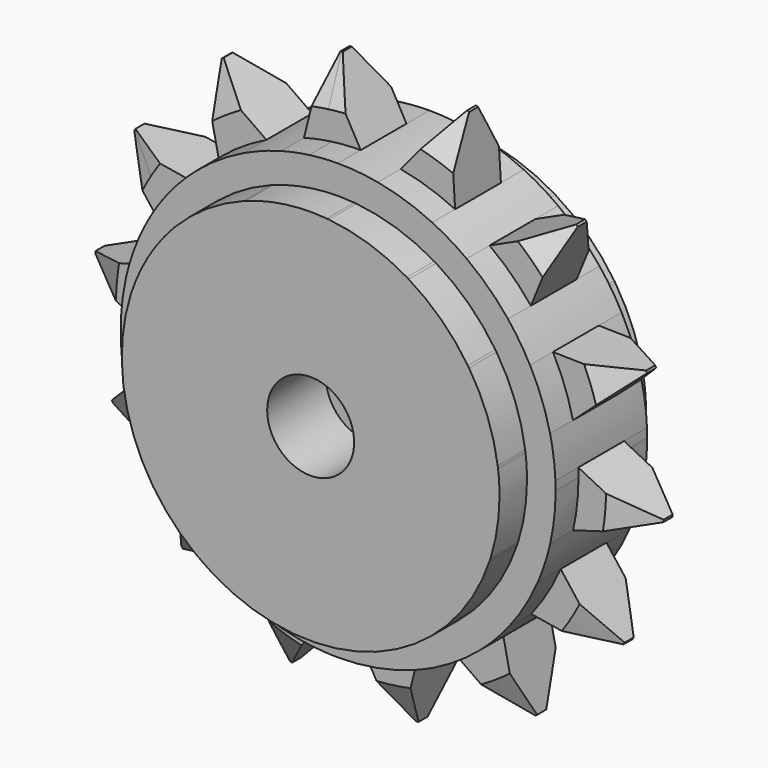
from build123d import *

# Parameters (mm, degrees)
F1_DEPTH    = 4
F2_DEPTH    = 2.5
F3_DEPTH    = 1.25
F4_SIZE2    = 1
F4_SIZE     = 1.7320508076
F4_2_SIZE2  = 1
F4_2_SIZE   = 1.7320508076
F4_3_SIZE2  = 1
F4_3_SIZE   = 1.7320508076
F4_4_SIZE2  = 1
F4_4_SIZE   = 1.7320508076
F4_5_SIZE2  = 1
F4_5_SIZE   = 1.7320508076
F4_6_SIZE2  = 1
F4_6_SIZE   = 1.7320508076
F4_7_SIZE2  = 1
F4_7_SIZE   = 1.7320508076
F4_8_SIZE2  = 1
F4_8_SIZE   = 1.7320508076
F4_9_SIZE2  = 1
F4_9_SIZE   = 1.7320508076
F4_10_SIZE2 = 1
F4_10_SIZE  = 1.7320508076
F4_11_SIZE2 = 1
F4_11_SIZE  = 1.7320508076
F4_12_SIZE2 = 1
F4_12_SIZE  = 1.7320508076
F4_13_SIZE2 = 1
F4_13_SIZE  = 1.7320508076
F4_14_SIZE2 = 1
F4_14_SIZE  = 1.7320508076
F5_SIZE2    = 1.0103629711
F5_SIZE     = 1.75
F5_2_SIZE2  = 1.0103629711
F5_2_SIZE   = 1.75
F5_3_SIZE2  = 1.0103629711
F5_3_SIZE   = 1.75
F5_4_SIZE2  = 1.0103629711
F5_4_SIZE   = 1.75
F5_5_SIZE2  = 1.0103629711
F5_5_SIZE   = 1.75
F5_6_SIZE2  = 1.0103629711
F5_6_SIZE   = 1.75
F5_7_SIZE2  = 1.0103629711
F5_7_SIZE   = 1.75
F5_8_SIZE2  = 1.0103629711
F5_8_SIZE   = 1.75
F5_9_SIZE2  = 1.0103629711
F5_9_SIZE   = 1.75
F5_10_SIZE2 = 1.0103629711
F5_10_SIZE  = 1.75
F5_11_SIZE2 = 1.0103629711
F5_11_SIZE  = 1.75
F5_12_SIZE2 = 1.0103629711
F5_12_SIZE  = 1.75
F5_13_SIZE2 = 1.0103629711
F5_13_SIZE  = 1.75
F5_14_SIZE2 = 1.0103629711
F5_14_SIZE  = 1.75
F6_R        = 1
F7_DEPTH    = 8.001
F6_R_2      = 3.9684577332
F8_DEPTH    = 2
F9_DEPTH    = 3
F11_START   = -1.8
F10_R       = 1.9
F10_R_2     = 1
F11_DEPTH   = 9.74


with BuildPart() as f1:
    # F0 (on Front) → F1 (new body, symmetric)
    with BuildSketch(Plane.XZ):
        Polygon((22.2134453157, 70.6856785573), (24.6582214579, 70.2813768995), (24.1511236759, 72.7069164385), (26.529210784, 73.4034018455), (25.0199293049, 75.3687159763), (26.8603180618, 77.0280409713), (24.6477845926, 78.1438751272), (25.5859634342, 80.4373900448), (23.1083973634, 80.4827395865), (22.9585484641, 82.956185669), (20.7066621375, 81.9220685635), (19.4984649094, 84.0855494795), (17.9182720315, 82.1767853023), (18.440936141, 78.2791722539), (18.7544736096, 78.5927097225), (21.406124039, 75.9410592931), (18.7544736096, 73.2894088636), (16.1028231801, 75.9410592931), (17.0964533562, 76.9346894691), (13.3578235433, 79.1752021476), (10.9797364352, 78.4787167406), (12.4890179143, 76.5134026098), (10.6486291574, 74.8540776148), (12.8611626266, 73.7382434589), (11.922983785, 71.4447285413), (14.4005498557, 71.3993789997), (14.5503987551, 68.9259329171), (16.8022850817, 69.9600500226), (18.0104823097, 67.7965691066), (19.5906751877, 69.7053332838), (21.6179224657, 68.280321463), align=None)
        Polygon((18.440936141, 78.2791722539), (17.9182720315, 82.1767853023), (15.8910247534, 83.6017971231), (15.2955019034, 81.1964400288), (12.8507257613, 81.6007416866), (13.3578235433, 79.1752021476), (17.0964533562, 76.9346894691), align=None)
        with BuildLine():
            Line((15.2955019034, 81.1964400288), (15.8910247534, 83.6017971231))
            Line((15.8910247534, 83.6017971231), (15.8201773124, 83.6515978761))
            ThreePointArc((15.8201773124, 83.6515978761), (14.2187790951, 82.8323563604), (12.8330039073, 81.685508489))
            Line((12.8330039073, 81.685508489), (12.8507257613, 81.6007416866))
            Line((12.8507257613, 81.6007416866), (15.2955019034, 81.1964400288))
        make_face()
        with BuildLine():
            Line((10.9269906593, 78.5473997664), (10.9797364352, 78.4787167406))
            Line((10.9797364352, 78.4787167406), (13.3578235433, 79.1752021476))
            Line((13.3578235433, 79.1752021476), (11.6779323187, 80.1819393148))
            ThreePointArc((11.6779323187, 80.1819393148), (11.2577800365, 79.3851971345), (10.9269906593, 78.5473997664))
        make_face()
        with BuildLine():
            Line((10.5713064074, 74.8930733483), (10.6486291574, 74.8540776148))
            Line((10.6486291574, 74.8540776148), (12.4890179143, 76.5134026098))
            Line((12.4890179143, 76.5134026098), (10.9797364352, 78.4787167406))
            Line((10.9797364352, 78.4787167406), (10.8966279817, 78.4543762424))
            ThreePointArc((10.8966279817, 78.4543762424), (10.5386813331, 76.6915639699), (10.5713064074, 74.8930733483))
        make_face()
        with BuildLine():
            ThreePointArc((10.5713064074, 74.8930733483), (10.5776653969, 74.8445614801), (10.5843119745, 74.7960881771))
            Line((10.5843119745, 74.7960881771), (10.6486291574, 74.8540776148))
            Line((10.6486291574, 74.8540776148), (10.5713064074, 74.8930733483))
        make_face()
        with BuildLine():
            ThreePointArc((10.9269906593, 78.5473997664), (10.9116714002, 78.5009330212), (10.8966279817, 78.4543762424))
            Line((10.8966279817, 78.4543762424), (10.9797364352, 78.4787167406))
            Line((10.9797364352, 78.4787167406), (10.9269906593, 78.5473997664))
        make_face()
        with BuildLine():
            Line((11.6779323187, 80.1819393148), (13.3578235433, 79.1752021476))
            Line((13.3578235433, 79.1752021476), (12.8507257613, 81.6007416866))
            Line((12.8507257613, 81.6007416866), (12.7652866856, 81.614871062))
            ThreePointArc((12.7652866856, 81.614871062), (12.1824391609, 80.9281288941), (11.6779323187, 80.1819393148))
        make_face()
        with BuildLine():
            Line((12.8507257613, 81.6007416866), (12.8330039073, 81.685508489))
            ThreePointArc((12.8330039073, 81.685508489), (12.7990405667, 81.6502901757), (12.7652866856, 81.614871062))
            Line((12.7652866856, 81.614871062), (12.8507257613, 81.6007416866))
        make_face()
        with BuildLine():
            Line((15.8201773124, 83.6515978761), (15.8910247534, 83.6017971231))
            Line((15.8910247534, 83.6017971231), (15.9118368519, 83.6858585974))
            ThreePointArc((15.9118368519, 83.6858585974), (15.8659562859, 83.6688641347), (15.8201773124, 83.6515978761))
        make_face()
        with BuildLine():
            Line((15.8910247534, 83.6017971231), (17.9182720315, 82.1767853023))
            Line((17.9182720315, 82.1767853023), (17.6579757967, 84.1178675057))
            ThreePointArc((17.6579757967, 84.1178675057), (16.7730970135, 83.9495951633), (15.9118368519, 83.6858585974))
            Line((15.9118368519, 83.6858585974), (15.8910247534, 83.6017971231))
        make_face()
        with BuildLine():
            Line((17.9182720315, 82.1767853023), (19.4984649094, 84.0855494795))
            Line((19.4984649094, 84.0855494795), (19.4562413076, 84.1611579602))
            ThreePointArc((19.4562413076, 84.1611579602), (18.5559251728, 84.1886697663), (17.6579757967, 84.1178675057))
            Line((17.6579757967, 84.1178675057), (17.9182720315, 82.1767853023))
        make_face()
        with BuildLine():
            Line((19.4984649094, 84.0855494795), (19.553688869, 84.1522562198))
            ThreePointArc((19.553688869, 84.1522562198), (19.5049782864, 84.1568515695), (19.4562413076, 84.1611579602))
            Line((19.4562413076, 84.1611579602), (19.4984649094, 84.0855494795))
        make_face()
        with BuildLine():
            Line((20.7066621375, 81.9220685635), (22.9585484641, 82.956185669))
            Line((22.9585484641, 82.956185669), (22.9533116036, 83.0426266904))
            ThreePointArc((22.9533116036, 83.0426266904), (21.3143473378, 83.7838615025), (19.553688869, 84.1522562198))
            Line((19.553688869, 84.1522562198), (19.4984649094, 84.0855494795))
            Line((19.4984649094, 84.0855494795), (20.7066621375, 81.9220685635))
        make_face()
        with BuildLine():
            Line((22.9585484641, 82.956185669), (23.0372465023, 82.9923255871))
            ThreePointArc((23.0372465023, 82.9923255871), (22.9953536313, 83.0176005839), (22.9533116036, 83.0426266904))
            Line((22.9533116036, 83.0426266904), (22.9585484641, 82.956185669))
        make_face()
        with BuildLine():
            Line((23.1083973634, 80.4827395865), (25.5859634342, 80.4373900448))
            Line((25.5859634342, 80.4373900448), (25.6187505396, 80.5175429026))
            ThreePointArc((25.6187505396, 80.5175429026), (24.4637044922, 81.896492336), (23.0372465023, 82.9923255871))
            Line((23.0372465023, 82.9923255871), (22.9585484641, 82.956185669))
            Line((22.9585484641, 82.956185669), (23.1083973634, 80.4827395865))
        make_face()
        with BuildLine():
            Line((25.5859634342, 80.4373900448), (25.6725484394, 80.4358051868))
            ThreePointArc((25.6725484394, 80.4358051868), (25.645770677, 80.4767538076), (25.6187505396, 80.5175429026))
            Line((25.6187505396, 80.5175429026), (25.5859634342, 80.4373900448))
        make_face()
        with BuildLine():
            Line((24.6477845926, 78.1438751272), (26.8603180618, 77.0280409713))
            Line((26.8603180618, 77.0280409713), (26.9246352447, 77.086030409))
            ThreePointArc((26.9246352447, 77.086030409), (26.4822784512, 78.8295766168), (25.6725484394, 80.4358051868))
            Line((25.6725484394, 80.4358051868), (25.5859634342, 80.4373900448))
            Line((25.5859634342, 80.4373900448), (24.6477845926, 78.1438751272))
        make_face()
        with BuildLine():
            Line((26.8603180618, 77.0280409713), (26.9376408118, 76.9890452378))
            ThreePointArc((26.9376408118, 76.9890452378), (26.9312818222, 77.037557106), (26.9246352447, 77.086030409))
            Line((26.9246352447, 77.086030409), (26.8603180618, 77.0280409713))
        make_face()
        with BuildLine():
            Line((25.0199293049, 75.3687159763), (26.529210784, 73.4034018455))
            Line((26.529210784, 73.4034018455), (26.6123192375, 73.4277423437))
            ThreePointArc((26.6123192375, 73.4277423437), (26.9058454705, 74.6691957843), (27.0044736096, 75.9410592931))
            ThreePointArc((27.0044736096, 75.9410592931), (26.9877484568, 76.4661167097), (26.9376408118, 76.9890452378))
            Line((26.9376408118, 76.9890452378), (26.8603180618, 77.0280409713))
            Line((26.8603180618, 77.0280409713), (25.0199293049, 75.3687159763))
        make_face()
        with BuildLine():
            Line((26.529210784, 73.4034018455), (26.5819565599, 73.3347188198))
            ThreePointArc((26.5819565599, 73.3347188198), (26.597275819, 73.3811855649), (26.6123192375, 73.4277423437))
            Line((26.6123192375, 73.4277423437), (26.529210784, 73.4034018455))
        make_face()
        with BuildLine():
            Line((24.6582214579, 70.2813768995), (24.7436605336, 70.2672475241))
            ThreePointArc((24.7436605336, 70.2672475241), (25.8310149004, 71.7001792713), (26.5819565599, 73.3347188198))
            Line((26.5819565599, 73.3347188198), (26.529210784, 73.4034018455))
            Line((26.529210784, 73.4034018455), (24.1511236759, 72.7069164385))
            Line((24.1511236759, 72.7069164385), (24.6582214579, 70.2813768995))
        make_face()
        with BuildLine():
            Line((24.6759433119, 70.1966100971), (24.6582214579, 70.2813768995))
            Line((24.6582214579, 70.2813768995), (22.2134453157, 70.6856785573))
            Line((22.2134453157, 70.6856785573), (21.6179224657, 68.280321463))
            Line((21.6179224657, 68.280321463), (21.6887699068, 68.23052071))
            ThreePointArc((21.6887699068, 68.23052071), (23.2901681241, 69.0497622257), (24.6759433119, 70.1966100971))
        make_face()
        with BuildLine():
            ThreePointArc((21.5971103673, 68.1962599888), (21.6429909333, 68.2132544514), (21.6887699068, 68.23052071))
            Line((21.6887699068, 68.23052071), (21.6179224657, 68.280321463))
            Line((21.6179224657, 68.280321463), (21.5971103673, 68.1962599888))
        make_face()
        with BuildLine():
            Line((21.5971103673, 68.1962599888), (21.6179224657, 68.280321463))
            Line((21.6179224657, 68.280321463), (19.5906751877, 69.7053332838))
            Line((19.5906751877, 69.7053332838), (18.0104823097, 67.7965691066))
            Line((18.0104823097, 67.7965691066), (18.0527059116, 67.7209606259))
            ThreePointArc((18.0527059116, 67.7209606259), (19.8509714225, 67.7642510804), (21.5971103673, 68.1962599888))
        make_face()
        with BuildLine():
            ThreePointArc((17.9552583501, 67.7298623664), (18.0039689328, 67.7252670166), (18.0527059116, 67.7209606259))
            Line((18.0527059116, 67.7209606259), (18.0104823097, 67.7965691066))
            Line((18.0104823097, 67.7965691066), (17.9552583501, 67.7298623664))
        make_face()
        with BuildLine():
            ThreePointArc((11.8363987798, 71.4463133993), (11.8631765422, 71.4053647785), (11.8901966796, 71.3645756835))
            Line((11.8901966796, 71.3645756835), (11.922983785, 71.4447285413))
            Line((11.922983785, 71.4447285413), (11.8363987798, 71.4463133993))
        make_face()
        with BuildLine():
            Line((11.8363987798, 71.4463133993), (11.922983785, 71.4447285413))
            Line((11.922983785, 71.4447285413), (12.8611626266, 73.7382434589))
            Line((12.8611626266, 73.7382434589), (10.6486291574, 74.8540776148))
            Line((10.6486291574, 74.8540776148), (10.5843119745, 74.7960881771))
            ThreePointArc((10.5843119745, 74.7960881771), (11.0266687679, 73.0525419693), (11.8363987798, 71.4463133993))
        make_face()
        with BuildLine():
            Line((14.4717007169, 68.889792999), (14.5503987551, 68.9259329171))
            Line((14.5503987551, 68.9259329171), (14.4005498557, 71.3993789997))
            Line((14.4005498557, 71.3993789997), (11.922983785, 71.4447285413))
            Line((11.922983785, 71.4447285413), (11.8901966796, 71.3645756835))
            ThreePointArc((11.8901966796, 71.3645756835), (13.045242727, 69.9856262501), (14.4717007169, 68.889792999))
        make_face()
        with BuildLine():
            ThreePointArc((14.4717007169, 68.889792999), (14.5135935878, 68.8645180022), (14.5556356155, 68.8394918957))
            Line((14.5556356155, 68.8394918957), (14.5503987551, 68.9259329171))
            Line((14.5503987551, 68.9259329171), (14.4717007169, 68.889792999))
        make_face()
        with BuildLine():
            Line((17.9552583501, 67.7298623664), (18.0104823097, 67.7965691066))
            Line((18.0104823097, 67.7965691066), (16.8022850817, 69.9600500226))
            Line((16.8022850817, 69.9600500226), (14.5503987551, 68.9259329171))
            Line((14.5503987551, 68.9259329171), (14.5556356155, 68.8394918957))
            ThreePointArc((14.5556356155, 68.8394918957), (16.1945998814, 68.0982570837), (17.9552583501, 67.7298623664))
        make_face()
        with BuildLine():
            ThreePointArc((24.6759433119, 70.1966100971), (24.7099066525, 70.2318284104), (24.7436605336, 70.2672475241))
            Line((24.7436605336, 70.2672475241), (24.6582214579, 70.2813768995))
            Line((24.6582214579, 70.2813768995), (24.6759433119, 70.1966100971))
        make_face()
        with BuildLine():
            Line((18.7544736096, 78.5927097225), (18.440936141, 78.2791722539))
            Line((18.440936141, 78.2791722539), (18.6395074753, 76.798385245))
            ThreePointArc((18.6395074753, 76.798385245), (19.3240257555, 76.5920856774), (19.6194736096, 75.9410592931))
            ThreePointArc((19.6194736096, 75.9410592931), (18.5237946194, 75.1073853739), (18.0125089773, 76.3857091378))
            Line((18.0125089773, 76.3857091378), (17.0964533562, 76.9346894691))
            Line((17.0964533562, 76.9346894691), (16.1028231801, 75.9410592931))
            Line((16.1028231801, 75.9410592931), (18.7544736096, 73.2894088636))
            Line((18.7544736096, 73.2894088636), (21.406124039, 75.9410592931))
            Line((21.406124039, 75.9410592931), (18.7544736096, 78.5927097225))
        make_face()
        with BuildLine():
            ThreePointArc((19.6194736096, 75.9410592931), (19.3240257555, 76.5920856774), (18.6395074753, 76.798385245))
            Line((18.6395074753, 76.798385245), (18.7544736096, 75.9410592931))
            Line((18.7544736096, 75.9410592931), (18.0125089773, 76.3857091378))
            ThreePointArc((18.0125089773, 76.3857091378), (18.5237946194, 75.1073853739), (19.6194736096, 75.9410592931))
        make_face()
        with BuildLine():
            Line((18.6395074753, 76.798385245), (18.440936141, 78.2791722539))
            Line((18.440936141, 78.2791722539), (17.0964533562, 76.9346894691))
            Line((17.0964533562, 76.9346894691), (18.0125089773, 76.3857091378))
            ThreePointArc((18.0125089773, 76.3857091378), (18.278912912, 76.6636013492), (18.6395074753, 76.798385245))
        make_face()
        with BuildLine():
            Line((18.7544736096, 75.9410592931), (18.6395074753, 76.798385245))
            ThreePointArc((18.6395074753, 76.798385245), (18.278912912, 76.6636013492), (18.0125089773, 76.3857091378))
            Line((18.0125089773, 76.3857091378), (18.7544736096, 75.9410592931))
        make_face()
    extrude(amount=F1_DEPTH, both=True)

    # F0 (on Front) → F2 (join, symmetric)
    with BuildSketch(Plane.XZ):
        with BuildLine():
            ThreePointArc((14.6442846413, 67.3762273248), (15.8067402256, 66.9099537186), (17.020432938, 66.6006576449))
            Line((17.020432938, 66.6006576449), (17.9552583501, 67.7298623664))
            ThreePointArc((17.9552583501, 67.7298623664), (16.1945998814, 68.0982570837), (14.5556356155, 68.8394918957))
            Line((14.5556356155, 68.8394918957), (14.6442846413, 67.3762273248))
        make_face()
        with BuildLine():
            ThreePointArc((18.7674626273, 66.4410681728), (20.0171074548, 66.5253407452), (21.2448053408, 66.773276144))
            Line((21.2448053408, 66.773276144), (21.5971103673, 68.1962599888))
            ThreePointArc((21.5971103673, 68.1962599888), (19.8509714225, 67.7642510804), (18.0527059116, 67.7209606259))
            Line((18.0527059116, 67.7209606259), (18.7674626273, 66.4410681728))
        make_face()
        with BuildLine():
            ThreePointArc((21.2448053408, 66.773276144), (22.0806450733, 67.0423749299), (22.888067979, 67.3874987719))
            Line((22.888067979, 67.3874987719), (21.6887699068, 68.23052071))
            ThreePointArc((21.6887699068, 68.23052071), (21.6429909333, 68.2132544514), (21.5971103673, 68.1962599888))
            Line((21.5971103673, 68.1962599888), (21.2448053408, 66.773276144))
        make_face()
        with BuildLine():
            ThreePointArc((17.020432938, 66.6006576449), (17.890256103, 66.480450005), (18.7674626273, 66.4410681728))
            Line((18.7674626273, 66.4410681728), (18.0527059116, 67.7209606259))
            ThreePointArc((18.0527059116, 67.7209606259), (18.0039689328, 67.7252670166), (17.9552583501, 67.7298623664))
            Line((17.9552583501, 67.7298623664), (17.020432938, 66.6006576449))
        make_face()
        with BuildLine():
            ThreePointArc((22.888067979, 67.3874987719), (23.9773945657, 68.0056263064), (24.9759370023, 68.7616865312))
            Line((24.9759370023, 68.7616865312), (24.6759433119, 70.1966100971))
            ThreePointArc((24.6759433119, 70.1966100971), (23.2901681241, 69.0497622257), (21.6887699068, 68.23052071))
            Line((21.6887699068, 68.23052071), (22.888067979, 67.3874987719))
        make_face()
        with BuildLine():
            ThreePointArc((24.9759370023, 68.7616865312), (25.6122449924, 69.3667934282), (26.1899642706, 70.0280669348))
            Line((26.1899642706, 70.0280669348), (24.7436605336, 70.2672475241))
            ThreePointArc((24.7436605336, 70.2672475241), (24.7099066525, 70.2318284104), (24.6759433119, 70.1966100971))
            Line((24.6759433119, 70.1966100971), (24.9759370023, 68.7616865312))
        make_face()
        with BuildLine():
            Line((24.7436605336, 70.2672475241), (26.1899642706, 70.0280669348))
            ThreePointArc((26.1899642706, 70.0280669348), (26.9032181263, 71.0576216923), (27.4748315376, 72.1720597432))
            Line((27.4748315376, 72.1720597432), (26.5819565599, 73.3347188198))
            ThreePointArc((26.5819565599, 73.3347188198), (25.8310149004, 71.7001792713), (24.7436605336, 70.2672475241))
        make_face()
        with BuildLine():
            Line((26.5819565599, 73.3347188198), (27.4748315376, 72.1720597432))
            ThreePointArc((27.4748315376, 72.1720597432), (27.785579184, 72.9933259091), (28.0191704466, 73.8397757523))
            Line((28.0191704466, 73.8397757523), (26.6123192375, 73.4277423437))
            ThreePointArc((26.6123192375, 73.4277423437), (26.597275819, 73.3811855649), (26.5819565599, 73.3347188198))
        make_face()
        with BuildLine():
            Line((26.6123192375, 73.4277423437), (28.0191704466, 73.8397757523))
            ThreePointArc((28.0191704466, 73.8397757523), (28.195464552, 74.8838506929), (28.2544736096, 75.9410592931))
            ThreePointArc((28.2544736096, 75.9410592931), (28.25249306, 76.1350348562), (28.2465522371, 76.3289295398))
            Line((28.2465522371, 76.3289295398), (26.9376408118, 76.9890452378))
            ThreePointArc((26.9376408118, 76.9890452378), (26.9877484568, 76.4661167097), (27.0044736096, 75.9410592931))
            ThreePointArc((27.0044736096, 75.9410592931), (26.9058454705, 74.6691957843), (26.6123192375, 73.4277423437))
        make_face()
        with BuildLine():
            Line((26.9376408118, 76.9890452378), (28.2465522371, 76.3289295398))
            ThreePointArc((28.2465522371, 76.3289295398), (28.1701921575, 77.2036931382), (28.0133897899, 78.0676695456))
            Line((28.0133897899, 78.0676695456), (26.9246352447, 77.086030409))
            ThreePointArc((26.9246352447, 77.086030409), (26.9312818222, 77.037557106), (26.9376408118, 76.9890452378))
        make_face()
        with BuildLine():
            Line((26.9246352447, 77.086030409), (28.0133897899, 78.0676695456))
            ThreePointArc((28.0133897899, 78.0676695456), (27.6531579727, 79.2672307567), (27.1382503518, 80.4089768771))
            Line((27.1382503518, 80.4089768771), (25.6725484394, 80.4358051868))
            ThreePointArc((25.6725484394, 80.4358051868), (26.4822784512, 78.8295766168), (26.9246352447, 77.086030409))
        make_face()
        with BuildLine():
            Line((25.6725484394, 80.4358051868), (27.1382503518, 80.4089768771))
            ThreePointArc((27.1382503518, 80.4089768771), (26.6899065963, 81.1639802492), (26.1737672305, 81.8743620972))
            Line((26.1737672305, 81.8743620972), (25.6187505396, 80.5175429026))
            ThreePointArc((25.6187505396, 80.5175429026), (25.645770677, 80.4767538076), (25.6725484394, 80.4358051868))
        make_face()
        with BuildLine():
            Line((25.6187505396, 80.5175429026), (26.1737672305, 81.8743620972))
            ThreePointArc((26.1737672305, 81.8743620972), (25.3287394744, 82.7988306758), (24.3694386623, 83.6040983414))
            Line((24.3694386623, 83.6040983414), (23.0372465023, 82.9923255871))
            ThreePointArc((23.0372465023, 82.9923255871), (24.4637044922, 81.896492336), (25.6187505396, 80.5175429026))
        make_face()
        with BuildLine():
            Line((23.0372465023, 82.9923255871), (24.3694386623, 83.6040983414))
            ThreePointArc((24.3694386623, 83.6040983414), (23.6379112104, 84.0898038098), (22.8646625779, 84.5058912613))
            Line((22.8646625779, 84.5058912613), (22.9533116036, 83.0426266904))
            ThreePointArc((22.9533116036, 83.0426266904), (22.9953536313, 83.0176005839), (23.0372465023, 82.9923255871))
        make_face()
        with BuildLine():
            Line((19.553688869, 84.1522562198), (20.4885142811, 85.2814609412))
            ThreePointArc((20.4885142811, 85.2814609412), (19.6186911162, 85.4016685811), (18.7414845919, 85.4410504133))
            Line((18.7414845919, 85.4410504133), (19.4562413076, 84.1611579602))
            ThreePointArc((19.4562413076, 84.1611579602), (19.5049782864, 84.1568515695), (19.553688869, 84.1522562198))
        make_face()
        with BuildLine():
            Line((19.4562413076, 84.1611579602), (18.7414845919, 85.4410504133))
            ThreePointArc((18.7414845919, 85.4410504133), (18.1152718506, 85.4195307474), (17.4918397644, 85.3567778409))
            Line((17.4918397644, 85.3567778409), (17.6579757967, 84.1178675057))
            ThreePointArc((17.6579757967, 84.1178675057), (18.5559251728, 84.1886697663), (19.4562413076, 84.1611579602))
        make_face()
        with BuildLine():
            Line((22.9533116036, 83.0426266904), (22.8646625779, 84.5058912613))
            ThreePointArc((22.8646625779, 84.5058912613), (21.7022069936, 84.9721648675), (20.4885142811, 85.2814609412))
            Line((20.4885142811, 85.2814609412), (19.553688869, 84.1522562198))
            ThreePointArc((19.553688869, 84.1522562198), (21.3143473378, 83.7838615025), (22.9533116036, 83.0426266904))
        make_face()
        with BuildLine():
            Line((17.6579757967, 84.1178675057), (17.4918397644, 85.3567778409))
            ThreePointArc((17.4918397644, 85.3567778409), (16.8739003872, 85.2530646815), (16.2641418784, 85.1088424421))
            Line((16.2641418784, 85.1088424421), (15.9118368519, 83.6858585974))
            ThreePointArc((15.9118368519, 83.6858585974), (16.7730970135, 83.9495951633), (17.6579757967, 84.1178675057))
        make_face()
        with BuildLine():
            Line((15.9118368519, 83.6858585974), (16.2641418784, 85.1088424421))
            ThreePointArc((16.2641418784, 85.1088424421), (15.4283021459, 84.8397436562), (14.6208792402, 84.4946198142))
            Line((14.6208792402, 84.4946198142), (15.8201773124, 83.6515978761))
            ThreePointArc((15.8201773124, 83.6515978761), (15.8659562859, 83.6688641347), (15.9118368519, 83.6858585974))
        make_face()
        with BuildLine():
            Line((15.8201773124, 83.6515978761), (14.6208792402, 84.4946198142))
            ThreePointArc((14.6208792402, 84.4946198142), (13.5315526535, 83.8764922797), (12.5330102169, 83.1204320549))
            Line((12.5330102169, 83.1204320549), (12.8330039073, 81.685508489))
            ThreePointArc((12.8330039073, 81.685508489), (14.2187790951, 82.8323563604), (15.8201773124, 83.6515978761))
        make_face()
        with BuildLine():
            Line((12.8330039073, 81.685508489), (12.5330102169, 83.1204320549))
            ThreePointArc((12.5330102169, 83.1204320549), (11.8967022268, 82.5153251579), (11.3189829485, 81.8540516514))
            Line((11.3189829485, 81.8540516514), (12.7652866856, 81.614871062))
            ThreePointArc((12.7652866856, 81.614871062), (12.7990405667, 81.6502901757), (12.8330039073, 81.685508489))
        make_face()
        with BuildLine():
            ThreePointArc((11.3189829485, 81.8540516514), (10.9453704428, 81.3510415233), (10.6057290928, 80.8244968938))
            Line((10.6057290928, 80.8244968938), (11.6779323187, 80.1819393148))
            ThreePointArc((11.6779323187, 80.1819393148), (12.1824391609, 80.9281288941), (12.7652866856, 81.614871062))
            Line((12.7652866856, 81.614871062), (11.3189829485, 81.8540516514))
        make_face()
        with BuildLine():
            ThreePointArc((10.6057290928, 80.8244968938), (10.3015364061, 80.2767083372), (10.0341156815, 79.7100588429))
            Line((10.0341156815, 79.7100588429), (10.9269906593, 78.5473997664))
            ThreePointArc((10.9269906593, 78.5473997664), (11.2577800365, 79.3851971345), (11.6779323187, 80.1819393148))
            Line((11.6779323187, 80.1819393148), (10.6057290928, 80.8244968938))
        make_face()
        with BuildLine():
            ThreePointArc((10.0341156815, 79.7100588429), (9.7233680351, 78.888792677), (9.4897767726, 78.0423428338))
            Line((9.4897767726, 78.0423428338), (10.8966279817, 78.4543762424))
            ThreePointArc((10.8966279817, 78.4543762424), (10.9116714002, 78.5009330212), (10.9269906593, 78.5473997664))
            Line((10.9269906593, 78.5473997664), (10.0341156815, 79.7100588429))
        make_face()
        with BuildLine():
            ThreePointArc((9.4897767726, 78.0423428338), (9.2938643215, 76.8052767997), (9.262394982, 75.5531890463))
            Line((9.262394982, 75.5531890463), (10.5713064074, 74.8930733483))
            ThreePointArc((10.5713064074, 74.8930733483), (10.5386813331, 76.6915639699), (10.8966279817, 78.4543762424))
            Line((10.8966279817, 78.4543762424), (9.4897767726, 78.0423428338))
        make_face()
        with BuildLine():
            ThreePointArc((9.262394982, 75.5531890463), (9.3387550617, 74.6784254479), (9.4955574293, 73.8144490405))
            Line((9.4955574293, 73.8144490405), (10.5843119745, 74.7960881771))
            ThreePointArc((10.5843119745, 74.7960881771), (10.5776653969, 74.8445614801), (10.5713064074, 74.8930733483))
            Line((10.5713064074, 74.8930733483), (9.262394982, 75.5531890463))
        make_face()
        with BuildLine():
            ThreePointArc((9.4955574293, 73.8144490405), (9.8557892465, 72.6148878294), (10.3706968674, 71.4731417091))
            Line((10.3706968674, 71.4731417091), (11.8363987798, 71.4463133993))
            ThreePointArc((11.8363987798, 71.4463133993), (11.0266687679, 73.0525419693), (10.5843119745, 74.7960881771))
            Line((10.5843119745, 74.7960881771), (9.4955574293, 73.8144490405))
        make_face()
        with BuildLine():
            ThreePointArc((10.3706968674, 71.4731417091), (10.8190406229, 70.718138337), (11.3351799886, 70.0077564889))
            Line((11.3351799886, 70.0077564889), (11.8901966796, 71.3645756835))
            ThreePointArc((11.8901966796, 71.3645756835), (11.8631765422, 71.4053647785), (11.8363987798, 71.4463133993))
            Line((11.8363987798, 71.4463133993), (10.3706968674, 71.4731417091))
        make_face()
        with BuildLine():
            ThreePointArc((11.3351799886, 70.0077564889), (12.1802077447, 69.0832879103), (13.1395085569, 68.2780202447))
            Line((13.1395085569, 68.2780202447), (14.4717007169, 68.889792999))
            ThreePointArc((14.4717007169, 68.889792999), (13.045242727, 69.9856262501), (11.8901966796, 71.3645756835))
            Line((11.8901966796, 71.3645756835), (11.3351799886, 70.0077564889))
        make_face()
        with BuildLine():
            ThreePointArc((13.1395085569, 68.2780202447), (13.8710360088, 67.7923147763), (14.6442846413, 67.3762273248))
            Line((14.6442846413, 67.3762273248), (14.5556356155, 68.8394918957))
            ThreePointArc((14.5556356155, 68.8394918957), (14.5135935878, 68.8645180022), (14.4717007169, 68.889792999))
            Line((14.4717007169, 68.889792999), (13.1395085569, 68.2780202447))
        make_face()
    extrude(amount=F2_DEPTH, both=True)

    # F0 (on Front) → F3 (join, symmetric)
    with BuildSketch(Plane.XZ):
        with BuildLine():
            ThreePointArc((12.5330102169, 83.1204320549), (13.5315526535, 83.8764922797), (14.6208792402, 84.4946198142))
            Line((14.6208792402, 84.4946198142), (11.9469160604, 86.3742272902))
            ThreePointArc((11.9469160604, 86.3742272902), (11.9054749775, 86.3470696707), (11.864142234, 86.3197474461))
            Line((11.864142234, 86.3197474461), (12.5330102169, 83.1204320549))
        make_face()
        with BuildLine():
            Line((8.0433555277, 82.3023314676), (10.0341156815, 79.7100588429))
            ThreePointArc((10.0341156815, 79.7100588429), (10.3015364061, 80.2767083372), (10.6057290928, 80.8244968938))
            Line((10.6057290928, 80.8244968938), (8.0687403738, 82.3448815467))
            ThreePointArc((8.0687403738, 82.3448815467), (8.0560267968, 82.3236191273), (8.0433555277, 82.3023314676))
        make_face()
        with BuildLine():
            Line((8.0687403738, 82.3448815467), (10.6057290928, 80.8244968938))
            ThreePointArc((10.6057290928, 80.8244968938), (10.9453704428, 81.3510415233), (11.3189829485, 81.8540516514))
            Line((11.3189829485, 81.8540516514), (8.0942942498, 82.3873303284))
            ThreePointArc((8.0942942498, 82.3873303284), (8.0814962083, 82.3661186417), (8.0687403738, 82.3448815467))
        make_face()
        with BuildLine():
            Line((6.3440371207, 77.0249875191), (9.262394982, 75.5531890463))
            ThreePointArc((9.262394982, 75.5531890463), (9.2938643215, 76.8052767997), (9.4897767726, 78.0423428338))
            Line((9.4897767726, 78.0423428338), (6.3530517, 77.1236703297))
            ThreePointArc((6.3530517, 77.1236703297), (6.3484462894, 77.0743378876), (6.3440371207, 77.0249875191))
        make_face()
        with BuildLine():
            Line((7.1027578644, 71.5329582919), (10.3706968674, 71.4731417091))
            ThreePointArc((10.3706968674, 71.4731417091), (9.8557892465, 72.6148878294), (9.4955574293, 73.8144490405))
            Line((9.4955574293, 73.8144490405), (7.0680628529, 71.6257797114))
            ThreePointArc((7.0680628529, 71.6257797114), (7.0853180657, 71.5793345041), (7.1027578644, 71.5329582919))
        make_face()
        with BuildLine():
            Line((10.1692438103, 66.9140075298), (13.1395085569, 68.2780202447))
            ThreePointArc((13.1395085569, 68.2780202447), (12.1802077447, 69.0832879103), (11.3351799886, 70.0077564889))
            Line((11.3351799886, 70.0077564889), (10.0977109805, 66.9825831377))
            ThreePointArc((10.0977109805, 66.9825831377), (10.1334092102, 66.9482242081), (10.1692438103, 66.9140075298))
        make_face()
        with BuildLine():
            Line((14.9361398089, 64.0829750789), (17.020432938, 66.6006576449))
            ThreePointArc((17.020432938, 66.6006576449), (15.8067402256, 66.9099537186), (14.6442846413, 67.3762273248))
            Line((14.6442846413, 67.3762273248), (14.8419371151, 64.1137226351))
            ThreePointArc((14.8419371151, 64.1137226351), (14.8890078895, 64.0982551906), (14.9361398089, 64.0829750789))
        make_face()
        with BuildLine():
            Line((20.4593036455, 63.6005816365), (21.2448053408, 66.773276144))
            ThreePointArc((21.2448053408, 66.773276144), (20.0171074548, 66.5253407452), (18.7674626273, 66.4410681728))
            Line((18.7674626273, 66.4410681728), (20.3610890865, 63.5874112103))
            ThreePointArc((20.3610890865, 63.5874112103), (20.4102094614, 63.593898768), (20.4593036455, 63.6005816365))
        make_face()
        with BuildLine():
            ThreePointArc((25.5620311588, 65.5078912959), (25.6034722417, 65.5350489154), (25.6448049852, 65.56237114))
            Line((25.6448049852, 65.56237114), (24.9759370023, 68.7616865312))
            ThreePointArc((24.9759370023, 68.7616865312), (23.9773945657, 68.0056263064), (22.888067979, 67.3874987719))
            Line((22.888067979, 67.3874987719), (25.5620311588, 65.5078912959))
        make_face()
        with BuildLine():
            Line((26.1899642706, 70.0280669348), (29.4146529693, 69.4947882578))
            ThreePointArc((29.4146529693, 69.4947882578), (29.4402068454, 69.5372370394), (29.4655916915, 69.5797871185))
            Line((29.4655916915, 69.5797871185), (27.4748315376, 72.1720597432))
            ThreePointArc((27.4748315376, 72.1720597432), (26.9032181263, 71.0576216923), (26.1899642706, 70.0280669348))
        make_face()
        with BuildLine():
            Line((28.0191704466, 73.8397757523), (31.1558955191, 74.7584482565))
            ThreePointArc((31.1558955191, 74.7584482565), (31.1605009298, 74.8077806985), (31.1649100984, 74.857131067))
            Line((31.1649100984, 74.857131067), (28.2465522371, 76.3289295398))
            ThreePointArc((28.2465522371, 76.3289295398), (28.25249306, 76.1350348562), (28.2544736096, 75.9410592931))
            ThreePointArc((28.2544736096, 75.9410592931), (28.195464552, 74.8838506929), (28.0191704466, 73.8397757523))
        make_face()
        with BuildLine():
            Line((28.0133897899, 78.0676695456), (30.4408843663, 80.2563388747))
            ThreePointArc((30.4408843663, 80.2563388747), (30.4236291535, 80.302784082), (30.4061893547, 80.3491602942))
            Line((30.4061893547, 80.3491602942), (27.1382503518, 80.4089768771))
            ThreePointArc((27.1382503518, 80.4089768771), (27.6531579727, 79.2672307567), (28.0133897899, 78.0676695456))
        make_face()
        with BuildLine():
            ThreePointArc((24.3694386623, 83.6040983414), (25.3287394744, 82.7988306758), (26.1737672305, 81.8743620972))
            Line((26.1737672305, 81.8743620972), (27.4112362387, 84.8995354484))
            ThreePointArc((27.4112362387, 84.8995354484), (27.375538009, 84.933894378), (27.3397034088, 84.9681110563))
            Line((27.3397034088, 84.9681110563), (24.3694386623, 83.6040983414))
        make_face()
        with BuildLine():
            ThreePointArc((20.4885142811, 85.2814609412), (21.7022069936, 84.9721648675), (22.8646625779, 84.5058912613))
            Line((22.8646625779, 84.5058912613), (22.6670101041, 87.7683959511))
            ThreePointArc((22.6670101041, 87.7683959511), (22.6199393297, 87.7838633955), (22.5728074102, 87.7991435072))
            Line((22.5728074102, 87.7991435072), (20.4885142811, 85.2814609412))
        make_face()
        with BuildLine():
            ThreePointArc((17.4918397644, 85.3567778409), (18.1152718506, 85.4195307474), (18.7414845919, 85.4410504133))
            Line((18.7414845919, 85.4410504133), (17.1478581327, 88.2947073758))
            ThreePointArc((17.1478581327, 88.2947073758), (17.1232947199, 88.2914880173), (17.0987377577, 88.2882198181))
            Line((17.0987377577, 88.2882198181), (17.4918397644, 85.3567778409))
        make_face()
        with BuildLine():
            ThreePointArc((16.2641418784, 85.1088424421), (16.8739003872, 85.2530646815), (17.4918397644, 85.3567778409))
            Line((17.4918397644, 85.3567778409), (17.0987377577, 88.2882198181))
            ThreePointArc((17.0987377577, 88.2882198181), (17.0741873433, 88.2849027912), (17.0496435736, 88.2815369496))
            Line((17.0496435736, 88.2815369496), (16.2641418784, 85.1088424421))
        make_face()
    extrude(amount=F3_DEPTH, both=True)

    # F4
    f4_edges = [f1.edges().sort_by_distance(p)[0] for p in [
        (27.375538, 1.25, 84.933894),
    ]]
    f4_side = f1.faces().sort_by_distance((26.025107, 1.25, 83.525228))[0]
    chamfer(f4_edges, length=F4_SIZE, length2=F4_SIZE2, reference=f4_side)

    # F4#2
    f4_2_edges = [f1.edges().sort_by_distance(p)[0] for p in [
        (30.423629, 1.25, 80.302784),
    ]]
    f4_2_side = f1.faces().sort_by_distance((28.595735, 1.25, 79.619549))[0]
    chamfer(f4_2_edges, length=F4_2_SIZE, length2=F4_2_SIZE2, reference=f4_2_side)

    # F4#3
    f4_3_edges = [f1.edges().sort_by_distance(p)[0] for p in [
        (7.085318, 1.25, 71.579335),
    ]]
    f4_3_side = f1.faces().sort_by_distance((8.913212, 1.25, 72.262569))[0]
    chamfer(f4_3_edges, length=F4_3_SIZE, length2=F4_3_SIZE2, reference=f4_3_side)

    # F4#4
    f4_4_edges = [f1.edges().sort_by_distance(p)[0] for p in [
        (11.905475, 1.25, 86.34707),
    ]]
    f4_4_side = f1.faces().sort_by_distance((12.978324, 1.25, 84.717039))[0]
    chamfer(f4_4_edges, length=F4_4_SIZE, length2=F4_4_SIZE2, reference=f4_4_side)

    # F4#5
    f4_5_edges = [f1.edges().sort_by_distance(p)[0] for p in [
        (22.619939, 1.25, 87.783863),
    ]]
    f4_5_side = f1.faces().sort_by_distance((22.01444, 1.25, 85.928768))[0]
    chamfer(f4_5_edges, length=F4_5_SIZE, length2=F4_5_SIZE2, reference=f4_5_side)

    # F4#6
    f4_6_edges = [f1.edges().sort_by_distance(p)[0] for p in [
        (10.133409, 1.25, 66.948224),
    ]]
    f4_6_side = f1.faces().sort_by_distance((11.48384, 1.25, 68.356891))[0]
    chamfer(f4_6_edges, length=F4_6_SIZE, length2=F4_6_SIZE2, reference=f4_6_side)

    # F4#7
    f4_7_edges = [f1.edges().sort_by_distance(p)[0] for p in [
        (6.348446, 1.25, 77.074338),
    ]]
    f4_7_side = f1.faces().sort_by_distance((8.291766, 1.25, 76.896817))[0]
    chamfer(f4_7_edges, length=F4_7_SIZE, length2=F4_7_SIZE2, reference=f4_7_side)

    # F4#8
    f4_8_edges = [f1.edges().sort_by_distance(p)[0] for p in [
        (25.603472, 1.25, 65.535049),
    ]]
    f4_8_side = f1.faces().sort_by_distance((24.530623, 1.25, 67.16508))[0]
    chamfer(f4_8_edges, length=F4_8_SIZE, length2=F4_8_SIZE2, reference=f4_8_side)

    # F4#9
    f4_9_edges = [f1.edges().sort_by_distance(p)[0] for p in [
        (29.440207, 1.25, 69.537237),
    ]]
    f4_9_side = f1.faces().sort_by_distance((27.766359, 1.25, 70.540352))[0]
    chamfer(f4_9_edges, length=F4_9_SIZE, length2=F4_9_SIZE2, reference=f4_9_side)

    # F4#10
    f4_10_edges = [f1.edges().sort_by_distance(p)[0] for p in [
        (20.410209, 1.25, 63.593899),
    ]]
    f4_10_side = f1.faces().sort_by_distance((20.15085, 1.25, 65.527998))[0]
    chamfer(f4_10_edges, length=F4_10_SIZE, length2=F4_10_SIZE2, reference=f4_10_side)

    # F4#11
    f4_11_edges = [f1.edges().sort_by_distance(p)[0] for p in [
        (14.889008, 1.25, 64.098255),
    ]]
    f4_11_side = f1.faces().sort_by_distance((15.494507, 1.25, 65.95335))[0]
    chamfer(f4_11_edges, length=F4_11_SIZE, length2=F4_11_SIZE2, reference=f4_11_side)

    # F4#12
    f4_12_edges = [f1.edges().sort_by_distance(p)[0] for p in [
        (17.098738, 1.25, 88.28822),
    ]]
    f4_12_side = f1.faces().sort_by_distance((17.358098, 1.25, 86.354121))[0]
    chamfer(f4_12_edges, length=F4_12_SIZE, length2=F4_12_SIZE2, reference=f4_12_side)

    # F4#13
    f4_13_edges = [f1.edges().sort_by_distance(p)[0] for p in [
        (8.06874, 1.25, 82.344882),
    ]]
    f4_13_side = f1.faces().sort_by_distance((9.742588, 1.25, 81.341766))[0]
    chamfer(f4_13_edges, length=F4_13_SIZE, length2=F4_13_SIZE2, reference=f4_13_side)

    # F4#14
    f4_14_edges = [f1.edges().sort_by_distance(p)[0] for p in [
        (31.160501, 1.25, 74.807781),
    ]]
    f4_14_side = f1.faces().sort_by_distance((29.217181, 1.25, 74.985301))[0]
    chamfer(f4_14_edges, length=F4_14_SIZE, length2=F4_14_SIZE2, reference=f4_14_side)

    # F5
    f5_edges = [f1.edges().sort_by_distance(p)[0] for p in [
        (27.375538, -1.25, 84.933894),
    ]]
    f5_side = f1.faces().sort_by_distance((26.025107, -1.25, 83.525228))[0]
    chamfer(f5_edges, length=F5_SIZE, length2=F5_SIZE2, reference=f5_side)

    # F5#2
    f5_2_edges = [f1.edges().sort_by_distance(p)[0] for p in [
        (30.423629, -1.25, 80.302784),
    ]]
    f5_2_side = f1.faces().sort_by_distance((28.595735, -1.25, 79.619549))[0]
    chamfer(f5_2_edges, length=F5_2_SIZE, length2=F5_2_SIZE2, reference=f5_2_side)

    # F5#3
    f5_3_edges = [f1.edges().sort_by_distance(p)[0] for p in [
        (7.085318, -1.25, 71.579335),
    ]]
    f5_3_side = f1.faces().sort_by_distance((8.913212, -1.25, 72.262569))[0]
    chamfer(f5_3_edges, length=F5_3_SIZE, length2=F5_3_SIZE2, reference=f5_3_side)

    # F5#4
    f5_4_edges = [f1.edges().sort_by_distance(p)[0] for p in [
        (11.905475, -1.25, 86.34707),
    ]]
    f5_4_side = f1.faces().sort_by_distance((12.978324, -1.25, 84.717039))[0]
    chamfer(f5_4_edges, length=F5_4_SIZE, length2=F5_4_SIZE2, reference=f5_4_side)

    # F5#5
    f5_5_edges = [f1.edges().sort_by_distance(p)[0] for p in [
        (22.619939, -1.25, 87.783863),
    ]]
    f5_5_side = f1.faces().sort_by_distance((22.01444, -1.25, 85.928768))[0]
    chamfer(f5_5_edges, length=F5_5_SIZE, length2=F5_5_SIZE2, reference=f5_5_side)

    # F5#6
    f5_6_edges = [f1.edges().sort_by_distance(p)[0] for p in [
        (10.133409, -1.25, 66.948224),
    ]]
    f5_6_side = f1.faces().sort_by_distance((11.48384, -1.25, 68.356891))[0]
    chamfer(f5_6_edges, length=F5_6_SIZE, length2=F5_6_SIZE2, reference=f5_6_side)

    # F5#7
    f5_7_edges = [f1.edges().sort_by_distance(p)[0] for p in [
        (6.348446, -1.25, 77.074338),
    ]]
    f5_7_side = f1.faces().sort_by_distance((8.291766, -1.25, 76.896817))[0]
    chamfer(f5_7_edges, length=F5_7_SIZE, length2=F5_7_SIZE2, reference=f5_7_side)

    # F5#8
    f5_8_edges = [f1.edges().sort_by_distance(p)[0] for p in [
        (25.603472, -1.25, 65.535049),
    ]]
    f5_8_side = f1.faces().sort_by_distance((24.530623, -1.25, 67.16508))[0]
    chamfer(f5_8_edges, length=F5_8_SIZE, length2=F5_8_SIZE2, reference=f5_8_side)

    # F5#9
    f5_9_edges = [f1.edges().sort_by_distance(p)[0] for p in [
        (29.440207, -1.25, 69.537237),
    ]]
    f5_9_side = f1.faces().sort_by_distance((27.766359, -1.25, 70.540352))[0]
    chamfer(f5_9_edges, length=F5_9_SIZE, length2=F5_9_SIZE2, reference=f5_9_side)

    # F5#10
    f5_10_edges = [f1.edges().sort_by_distance(p)[0] for p in [
        (20.410209, -1.25, 63.593899),
    ]]
    f5_10_side = f1.faces().sort_by_distance((20.15085, -1.25, 65.527998))[0]
    chamfer(f5_10_edges, length=F5_10_SIZE, length2=F5_10_SIZE2, reference=f5_10_side)

    # F5#11
    f5_11_edges = [f1.edges().sort_by_distance(p)[0] for p in [
        (14.889008, -1.25, 64.098255),
    ]]
    f5_11_side = f1.faces().sort_by_distance((15.494507, -1.25, 65.95335))[0]
    chamfer(f5_11_edges, length=F5_11_SIZE, length2=F5_11_SIZE2, reference=f5_11_side)

    # F5#12
    f5_12_edges = [f1.edges().sort_by_distance(p)[0] for p in [
        (17.098738, -1.25, 88.28822),
    ]]
    f5_12_side = f1.faces().sort_by_distance((17.358098, -1.25, 86.354121))[0]
    chamfer(f5_12_edges, length=F5_12_SIZE, length2=F5_12_SIZE2, reference=f5_12_side)

    # F5#13
    f5_13_edges = [f1.edges().sort_by_distance(p)[0] for p in [
        (8.06874, -1.25, 82.344882),
    ]]
    f5_13_side = f1.faces().sort_by_distance((9.742588, -1.25, 81.341766))[0]
    chamfer(f5_13_edges, length=F5_13_SIZE, length2=F5_13_SIZE2, reference=f5_13_side)

    # F5#14
    f5_14_edges = [f1.edges().sort_by_distance(p)[0] for p in [
        (31.160501, -1.25, 74.807781),
    ]]
    f5_14_side = f1.faces().sort_by_distance((29.217181, -1.25, 74.985301))[0]
    chamfer(f5_14_edges, length=F5_14_SIZE, length2=F5_14_SIZE2, reference=f5_14_side)

    # F6 (on face) → F7 (cut, through all)
    with BuildSketch(Plane(origin=(0, 4, 0), x_dir=(-1, 0, 0), z_dir=(0, 1, 0))):
        with Locations((-18.7544736096, 75.9410592931)):
            Circle(F6_R)
    extrude(amount=-F7_DEPTH, mode=Mode.SUBTRACT)

    # F6 (on face) → F8 (cut)
    with BuildSketch(Plane(origin=(0, 4, 0), x_dir=(-1, 0, 0), z_dir=(0, 1, 0))):
        with Locations((-18.7544736096, 75.9410592931)):
            Circle(F6_R_2)
        Polygon((-18.7544736096, 78.6927092931), (-16.0028236096, 75.9410592931), (-18.7544736096, 73.1894092931), (-21.5061236096, 75.9410592931), align=None, mode=Mode.SUBTRACT)
    extrude(amount=-F8_DEPTH, mode=Mode.SUBTRACT)

    # F6 (on face) → F9 (cut)
    with BuildSketch(Plane(origin=(0, 4, 0), x_dir=(-1, 0, 0), z_dir=(0, 1, 0))):
        Polygon((-18.7544736096, 73.1894092931), (-16.0028236096, 75.9410592931), (-18.7544736096, 78.6927092931), (-21.5061236096, 75.9410592931), align=None)
        with Locations((-18.7544736096, 75.9410592931)):
            Circle(F6_R, mode=Mode.SUBTRACT)
    extrude(amount=-F9_DEPTH, mode=Mode.SUBTRACT)

    # F10 (on face) → F11 (cut)
    with BuildSketch(Plane(origin=(0, 1, 0), x_dir=(-1, 0, 0), z_dir=(0, 1, 0)).offset(F11_START)):
        with Locations((-18.7544736096, 75.9410592931)):
            Circle(F10_R)
        with Locations((-18.7544736096, 75.9410592931)):
            Circle(F10_R_2, mode=Mode.SUBTRACT)
    extrude(amount=-F11_DEPTH, mode=Mode.SUBTRACT)


solid = f1.part
